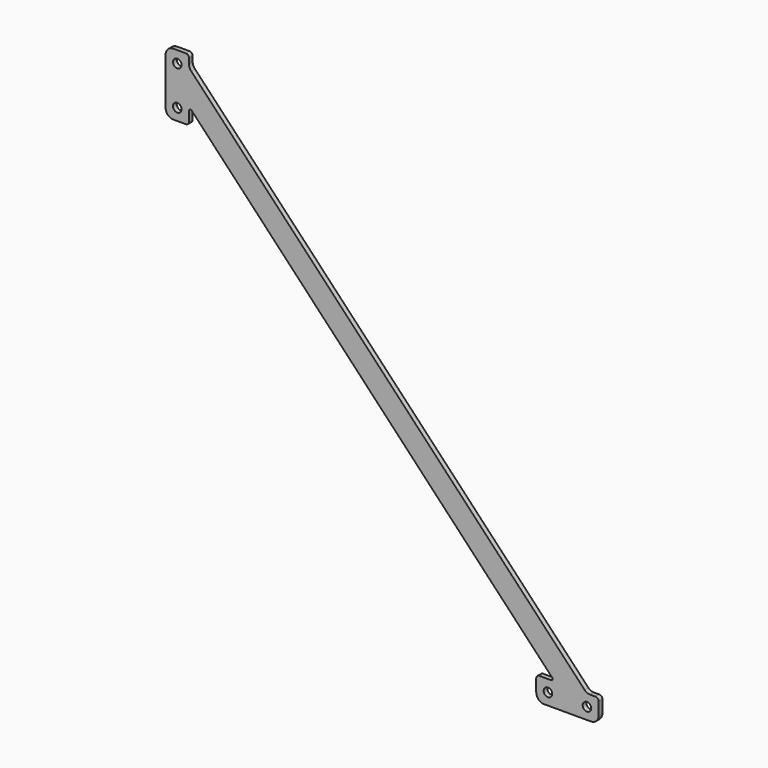
from build123d import *

# Parameters (mm, degrees)
F0_R     = 2.75
F1_DEPTH = 3


with BuildPart() as f1:
    # F0 (on Front) → F1 (new body)
    with BuildSketch(Plane.XZ):
        with BuildLine():
            ThreePointArc((2.699166, 9.186418), (2.890223, 8.104032), (1.971959, 7.5))
            Line((1.971959, 7.5), (-5.5, 7.5))
            ThreePointArc((-5.5, 7.5), (-6.914214, 6.914214), (-7.5, 5.5))
            Line((-7.5, 5.5), (-7.5, -2.5))
            ThreePointArc((-7.5, -2.5), (-6.035534, -6.035534), (-2.5, -7.5))
            Line((-2.5, -7.5), (27.5, -7.5))
            ThreePointArc((27.5, -7.5), (31.035534, -6.035534), (32.5, -2.5))
            Line((32.5, -2.5), (32.5, 5.5))
            ThreePointArc((32.5, 5.5), (31.914214, 6.914214), (30.5, 7.5))
            Line((30.5, 7.5), (27.071068, 7.5))
            ThreePointArc((27.071068, 7.5), (25.157651, 7.880602), (23.535534, 8.964466))
            Line((23.535534, 8.964466), (-228.555645, 276.035534))
            ThreePointArc((-228.555645, 276.035534), (-229.639509, 277.657651), (-230.020111, 279.571068))
            Line((-230.020111, 279.571068), (-230, 283))
            ThreePointArc((-230, 283), (-230.585786, 284.414214), (-232, 285))
            Line((-232, 285), (-240, 285))
            ThreePointArc((-240, 285), (-243.535534, 283.535534), (-245, 280))
            Line((-245, 280), (-245, 250))
            ThreePointArc((-245, 250), (-243.535534, 246.464466), (-240, 245))
            Line((-240, 245), (-231.961206, 245))
            ThreePointArc((-231.961206, 245), (-230.69314, 245.453388), (-230, 246.60799))
            Line((-230, 246.60799), (-230, 253.196891))
            ThreePointArc((-230, 253.196891), (-229.369319, 254.126193), (-228.272793, 253.883309))
            Line((-228.272793, 253.883309), (2.699166, 9.186418))
        make_face()
        Circle(F0_R, mode=Mode.SUBTRACT)
        with Locations((25, 0)):
            Circle(F0_R, mode=Mode.SUBTRACT)
        with Locations((-237.5, 252.5)):
            Circle(F0_R, mode=Mode.SUBTRACT)
        with Locations((-237.5, 277.5)):
            Circle(F0_R, mode=Mode.SUBTRACT)
    extrude(amount=F1_DEPTH)


solid = f1.part
